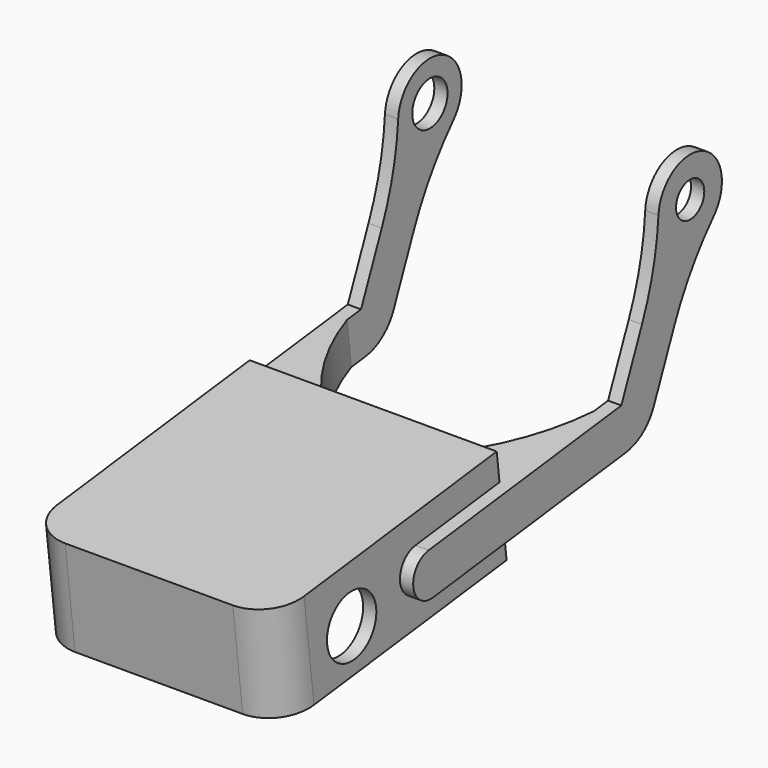
from build123d import *

# Parameters (mm, degrees)
SKETCH012_R     = 4
PAD005_DEPTH    = 3
PAD006_DEPTH    = 56
POCKET007_DEPTH = 20
SKETCH016_R     = 7
POCKET008_DEPTH = 3
SKETCH018_R     = 2.1
POCKET010_DEPTH = 3
SKETCH019_R     = 5
PAD007_DEPTH    = 3
SKETCH020_R     = 1.5
PAD008_DEPTH    = 4.5
PAD009_DEPTH    = 10
FILLET_R        = 9
FILLET001_R     = 6


with BuildPart() as part:
    # Sketch012 → Pad005 (new body)
    with BuildSketch(Plane.YZ):
        with BuildLine():
            Line((-13.6486038997, -19.3575724611), (-19.5095708271, -33.1651452629))
            Line((-19.5095708271, -33.1651452629), (-74.0996091673, -39.8679591502))
            ThreePointArc((-74.0996091673, -39.8679591502), (-78.4529932085, -45.4400366254), (-72.8809157334, -49.7934206666))
            Line((-72.8809157334, -49.7934206666), (-18.2908773931, -43.0906067793))
            ThreePointArc((-18.2908773931, -43.0906067793), (-13.4914205956, -41.1515003634), (-10.3045222925, -37.0724565478))
            Line((-10.3045222925, -37.0724565478), (-4.4435553652, -23.264883746))
            ThreePointArc((6.6243568489, -6.092445842), (0.3541186357, -14.2041191435), (-4.4435553652, -23.264883746))
            ThreePointArc((6.6243568489, -6.092445842), (3.5165801564, 8.2845436811), (-8.9842037096, 0.5329950324))
            ThreePointArc((-13.6486038997, -19.3575724611), (-10.4635797031, -9.6122786293), (-8.9842037096, 0.5329950324))
        make_face()
        Circle(SKETCH012_R, mode=Mode.SUBTRACT)
    extrude(amount=PAD005_DEPTH)

    # Sketch013 (on Face11 of Pad005) → Pad006 (join)
    with BuildSketch(Plane(origin=(0, 0, 0), x_dir=(0, 1, 0), z_dir=(-1, 0, 0))):
        Polygon((-111.7906110668, 61.1197443885), (-48.2676573618, 53.3201064106), (-51.0706522601, 30.4915449228), (-114.5936059651, 38.2911829007), align=None)
    extrude(amount=PAD006_DEPTH)

    # Sketch015 (on Face15 of Pad006) → Pocket007 (cut)
    with BuildSketch(Plane(origin=(0, 5.7327727551, -46.6896873101), x_dir=(0, 0.9925461516, 0.1218693434), z_dir=(0, 0.1218693434, -0.9925461516))):
        Polygon((-115.4059639217, -3), (-57.4059639217, -3), (-57.4059639217, -10), (-66.4059639217, -10), (-66.4059639217, -13), (-57.4059639217, -13), (-57.4059639217, -53), (-115.4059639217, -53), (-115.4059639217, -13), (-107.6059639217, -13), (-107.6059639217, -10), (-115.4059639217, -10), align=None)
    extrude(amount=-POCKET007_DEPTH, mode=Mode.SUBTRACT)

    # Sketch016 (on Face14 of Pocket007) → Pocket008 (cut)
    with BuildSketch(Plane.YZ):
        with Locations((-92.1658353164, -48.6350266606)):
            Circle(SKETCH016_R)
    extrude(amount=-POCKET008_DEPTH, mode=Mode.SUBTRACT)

    # Sketch018 → Pocket010 (cut)
    with BuildSketch(Plane(origin=(-13, 0, 0), x_dir=(0, 1, 0), z_dir=(-1, 0, 0))):
        with Locations((-57.4788589785, 39.8422072873)):
            Circle(SKETCH018_R)
        with Locations((-56.3820348878, 48.7751226521)):
            Circle(SKETCH018_R)
        with Locations((-107.403930406, 45.9722352606)):
            Circle(SKETCH018_R)
        with Locations((-106.3071063154, 54.9051506254)):
            Circle(SKETCH018_R)
    extrude(amount=-POCKET010_DEPTH, mode=Mode.SUBTRACT)

    # Sketch019 → Pad007 (join)
    with BuildSketch(Plane(origin=(-56, 0, 0), x_dir=(0, 1, 0), z_dir=(-1, 0, 0))):
        with BuildLine():
            ThreePointArc((-8.9842037096, -0.5329950324), (3.5165801564, -8.2845436811), (6.6243568489, 6.092445842))
            ThreePointArc((-4.4435553652, 23.264883746), (0.3541186357, 14.2041191435), (6.6243568489, 6.092445842))
            Line((-4.4435553652, 23.264883746), (-10.3045222925, 37.0724565478))
            ThreePointArc((-10.3045222925, 37.0724565478), (-13.4914205956, 41.1515003634), (-18.290877393, 43.0906067793))
            Line((-18.290877393, 43.0906067793), (-72.8809157333, 49.7934206666))
            ThreePointArc((-72.8809157333, 49.7934206666), (-78.4529932085, 45.4400366254), (-74.0996091673, 39.8679591502))
            Line((-19.5095708271, 33.1651452629), (-74.0996091673, 39.8679591502))
            Line((-13.6486038997, 19.3575724611), (-19.5095708271, 33.1651452629))
            ThreePointArc((-8.9842037096, -0.5329950324), (-10.4635797031, 9.6122786293), (-13.6486038997, 19.3575724611))
        make_face()
        Circle(SKETCH019_R, mode=Mode.SUBTRACT)
    extrude(amount=PAD007_DEPTH)

    # Sketch020 (on Face17 of Pad007) → Pad008 (join)
    with BuildSketch(Plane(origin=(-56, 0, 0), x_dir=(0, 1, 0), z_dir=(-1, 0, 0))):
        with Locations((-92.1658353164, 48.6350266606)):
            Circle(SKETCH020_R)
    extrude(amount=PAD008_DEPTH)

    # Sketch021 (on Face9 of Pad008) → Pad009 (join)
    with BuildSketch(Plane(origin=(0, 4.9406220229, -40.2381373244), x_dir=(0, 0.9925461516, 0.1218693434), z_dir=(0, 0.1218693434, -0.9925461516))):
        with BuildLine():
            Line((-27.4059639217, 0), (-54.4059639217, 0))
            Line((-54.4059639217, 0), (-54.4059639217, -17))
            ThreePointArc((-27.4059639217, 0), (-42.2983611114, -6.2885456399), (-54.4059639217, -17))
        make_face()
        with BuildLine():
            Line((-54.4059639217, -39), (-54.4059639217, -56))
            Line((-27.4059639217, -56), (-54.4059639217, -56))
            ThreePointArc((-54.4059639217, -39), (-42.2983611114, -49.7114543601), (-27.4059639217, -56))
        make_face()
    extrude(amount=-PAD009_DEPTH)

    # Fillet
    fillet_edges = [part.edges().sort_by_distance(p)[0] for p in [
        (0, -113.192109, -49.705464),
        (-56, -113.192109, -49.705464),
    ]]
    fillet(fillet_edges, radius=FILLET_R)

    # Fillet001
    fillet001_edges = [part.edges().sort_by_distance(p)[0] for p in [
        (-53, -110.031666, -50.828675),
        (-3, -110.031666, -50.828675),
    ]]
    fillet(fillet001_edges, radius=FILLET001_R)


with BuildPart() as part_1:
    # Body004 placement: moved
    add(part.part.moved(Location((28, 16.5, -26.5))))


solid = part_1.part
